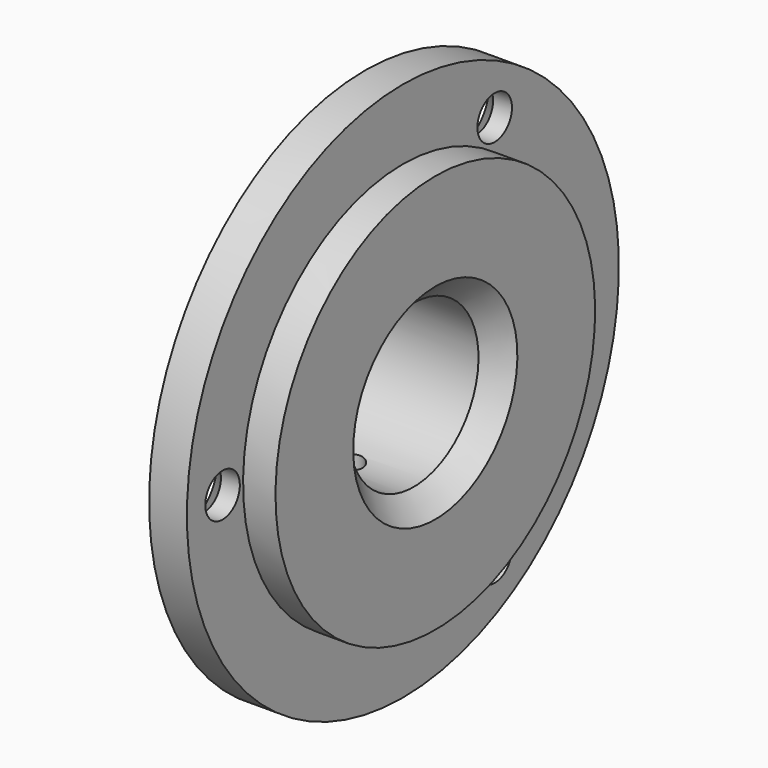
from build123d import *

# Parameters (mm, degrees)
SKETCH001_R     = 4
POCKET_DEPTH    = 23.001
CHAMFER_SIZE    = 3.5
CHAMFER001_SIZE = 4
SKETCH002_R     = 2.5
POCKET001_DEPTH = 100.001


with BuildPart() as part:
    # Sketch → Revolution (revolve)
    with BuildSketch(Plane.XZ):
        Polygon((0, 15), (0, 17.5), (11, 17.5), (11, 26), (17, 26), (17, 50), (24, 50), (24, 37), (30, 37), (30, 15), align=None)
    revolve(axis=Axis((0, 0, 0), (1, 0, 0)))

    # Sketch001 → Pocket (cut, through all)
    with BuildSketch(Plane(origin=(7, 0, 0), x_dir=(0, 0, -1), z_dir=(-1, 0, 0))):
        with Locations((0, 41.75)):
            Circle(SKETCH001_R)
        with Locations((35.937446, -21.25)):
            Circle(SKETCH001_R)
        with Locations((-35.937446, -21.25)):
            Circle(SKETCH001_R)
    extrude(amount=-POCKET_DEPTH, mode=Mode.SUBTRACT)

    # Chamfer
    chamfer_edges = [part.edges().sort_by_distance(p)[0] for p in [
        (17, -41.75, 4),
        (17, 21.25, 39.937446),
        (17, 21.25, -31.937446),
    ]]
    chamfer(chamfer_edges, length=CHAMFER_SIZE)

    # Chamfer001
    chamfer001_edges = [part.edges().sort_by_distance(p)[0] for p in [
        (30, 0, -15),
    ]]
    chamfer(chamfer001_edges, length=CHAMFER001_SIZE)

    # Sketch002 (on DatumPlane) → Pocket001 (cut, through all)
    with BuildSketch(Plane.XY.offset(50)):
        with Locations((14, 0)):
            Circle(SKETCH002_R)
    extrude(amount=-POCKET001_DEPTH, mode=Mode.SUBTRACT)


solid = part.part
